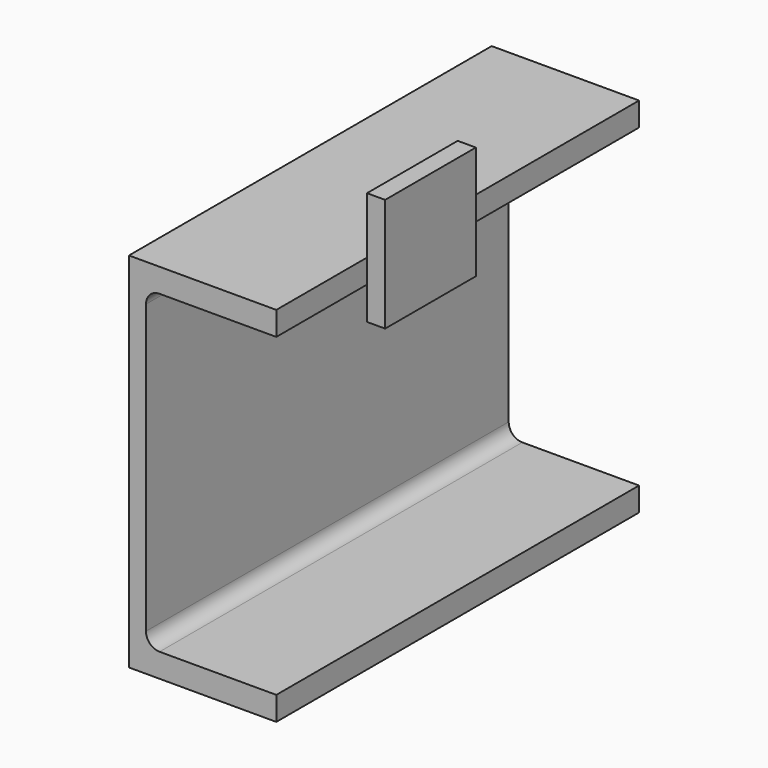
from build123d import *

# Parameters (mm, degrees)
F1_DEPTH = 200
F3_W     = 8
F3_H     = 50
F4_DEPTH = 50


with BuildPart() as f1:
    # F0 (on Front) → F1 (new body)
    with BuildSketch(Plane.XZ):
        with BuildLine():
            Line((32.5, 69.5), (32.5, 80))
            Line((32.5, 80), (-32.5, 80))
            Line((-32.5, 80), (-32.5, -80))
            Line((-32.5, -80), (32.5, -80))
            Line((32.5, -80), (32.5, -69.5))
            Line((32.5, -69.5), (-19, -69.5))
            ThreePointArc((-19, -69.5), (-23.2426406871, -67.7426406871), (-25, -63.5))
            Line((-25, -63.5), (-25, 63.5))
            ThreePointArc((-25, 63.5), (-23.2426406871, 67.7426406871), (-19, 69.5))
            Line((-19, 69.5), (32.5, 69.5))
        make_face()
    extrude(amount=-F1_DEPTH)


with BuildPart() as f4:
    # F3 (on offset) → F4 (new body)
    with BuildSketch(Plane.XY.offset(105)):
        with Locations((36.5, 75)):
            Rectangle(F3_W, F3_H)
    extrude(amount=-F4_DEPTH)


solid = Compound([f1.part, f4.part])
